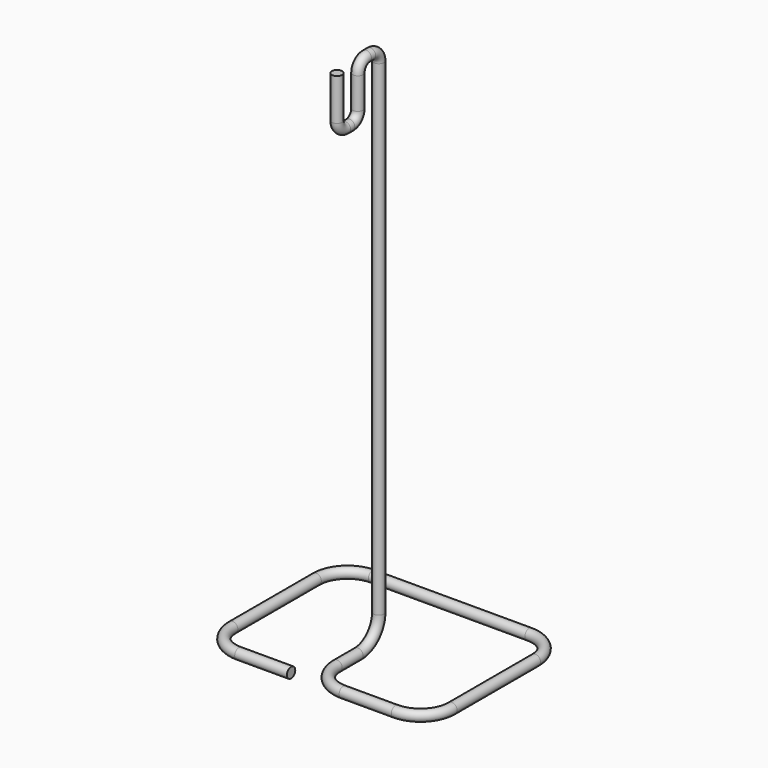
from build123d import *

# Parameters (mm, degrees)
F3_R = 1


with BuildPart() as f4:
    # F4: sweep along a path in F1, F0
    with BuildLine(Plane.XY) as f4_path:
        Line((-5, -42.4242580721), (-15, -42.4242580721))
        ThreePointArc((-15, -42.4242580721), (-18.5355339059, -40.959791978), (-20, -37.4242580721))
        Line((-20, -37.4242580721), (-20, -17.4242580721))
        ThreePointArc((-20, -17.4242580721), (-18.5355339059, -13.8887241661), (-15, -12.4242580721))
        Line((-15, -12.4242580721), (15, -12.4242580721))
        ThreePointArc((15, -12.4242580721), (18.5355339059, -13.8887241661), (20, -17.4242580721))
        Line((20, -17.4242580721), (20, -37.4242580721))
        ThreePointArc((20, -37.4242580721), (18.5355339059, -40.959791978), (15, -42.4242580721))
        Line((15, -42.4242580721), (5, -42.4242580721))
        ThreePointArc((5, -42.4242580721), (1.4644660941, -40.959791978), (0, -37.4242580721))
    with BuildLine(Plane.YZ) as f4_path_2:
        Line((-37.4242580721, 0), (-32.4242580721, 0))
        ThreePointArc((-32.4242580721, 0), (-28.8887241661, 1.4644660941), (-27.4242580721, 5))
        Line((-27.4242580721, 5), (-27.4242580721, 98))
        ThreePointArc((-27.4242580721, 98), (-28.0100445097, 99.4142135624), (-29.4242580721, 100))
        Line((-29.4242580721, 100), (-30.4242580721, 100))
        ThreePointArc((-30.4242580721, 100), (-31.8384716344, 99.4142135624), (-32.4242580721, 98))
        Line((-32.4242580721, 98), (-32.4242580721, 92))
        ThreePointArc((-32.4242580721, 92), (-33.0100445097, 90.5857864376), (-34.4242580721, 90))
        Line((-34.4242580721, 90), (-35.4242580721, 90))
        ThreePointArc((-35.4242580721, 90), (-36.8384716344, 90.5857864376), (-37.4242580721, 92))
        Line((-37.4242580721, 92), (-37.4242580721, 100))
    # F3 (on plane+point) → F4 (sweep)
    with BuildSketch(Plane.YZ.offset(-5)):
        with Locations((-43.4242580721, 0)):
            Circle(F3_R)
    sweep(path=f4_path.line + f4_path_2.line)


solid = f4.part
